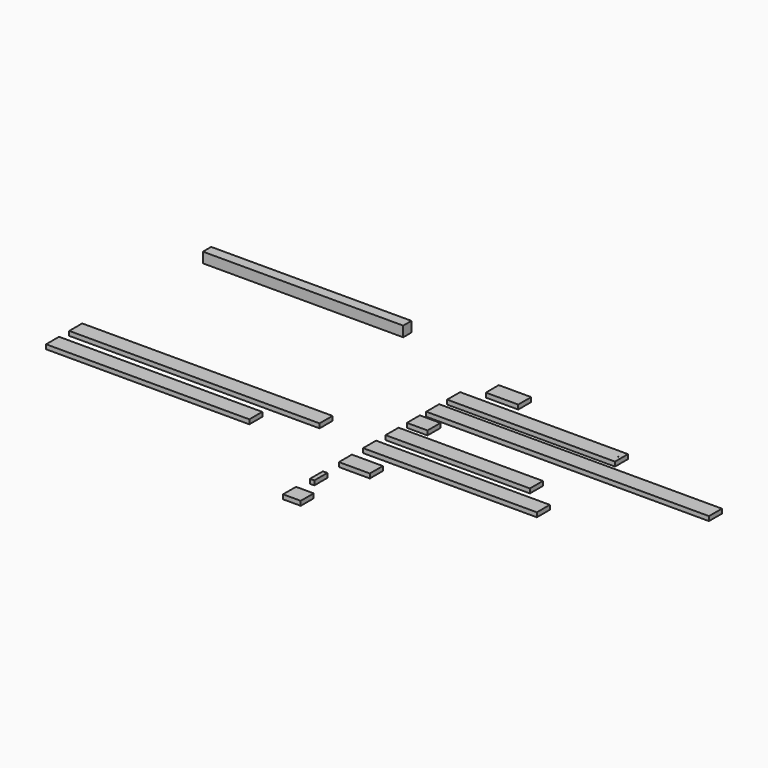
from build123d import *

# Parameters (mm, degrees)
F0_W     = 266.7
F0_H     = 139.7
F1_DEPTH = 38.1
F0_W_2   = 38.1
F0_W_3   = 152.4
F0_W_4   = 1498.6
F0_W_5   = 1244.6
F0_W_6   = 177.8
F0_W_7   = 2438.4
F0_W_8   = 1447.8
F0_R     = 3.175
F0_W_9   = 279.4
F2_DEPTH = 139.7
F3_DEPTH = 139.7
F4_W     = 2159
F4_H     = 139.7
F5_DEPTH = 38.1
F4_W_2   = 1752.6
F6_W     = 1727.2
F6_H     = 88.9
F7_DEPTH = 88.9


with BuildPart() as f1:
    # F0 (on Top) → F1 (new body)
    with BuildSketch(Plane.XY):
        with Locations((-160.613628155, 197.5400321245)):
            Rectangle(F0_W, F0_H)
    extrude(amount=F1_DEPTH)


with BuildPart() as f1b:
    # F0 (on Top) → F1, piece 2 (new body)
    with BuildSketch(Plane.XY):
        with Locations((-274.913628155, -114.7828675747)):
            Rectangle(F0_W_2, F0_H)
    extrude(amount=F1_DEPTH)


with BuildPart() as f1c:
    # F0 (on Top) → F1, piece 3 (new body)
    with BuildSketch(Plane.XY):
        with Locations((-217.763628155, -404.6737529278)):
            Rectangle(F0_W_3, F0_H)
    extrude(amount=F1_DEPTH)


with BuildPart() as f1d:
    # F0 (on Top) → F1, piece 4 (new body)
    with BuildSketch(Plane.XY):
        with Locations((455.336371845, 458.0967150688)):
            Rectangle(F0_W_4, F0_H)
    extrude(amount=F1_DEPTH)


with BuildPart() as f1e:
    # F0 (on Top) → F1, piece 5 (new body)
    with BuildSketch(Plane.XY):
        with Locations((328.336371845, 700.6174050331)):
            Rectangle(F0_W_5, F0_H)
    extrude(amount=F1_DEPTH)


with BuildPart() as f1f:
    # F0 (on Top) → F1, piece 6 (new body)
    with BuildSketch(Plane.XY):
        with Locations((-205.063628155, 930.0611935616)):
            Rectangle(F0_W_6, F0_H)
    extrude(amount=F1_DEPTH)


with BuildPart() as f1g:
    # F0 (on Top) → F1, piece 7 (new body)
    with BuildSketch(Plane.XY):
        with Locations((925.236371845, 1138.5292135239)):
            Rectangle(F0_W_7, F0_H)
    extrude(amount=F1_DEPTH)


with BuildPart() as f1h:
    # F0 (on Top) → F1, piece 8 (new body)
    with BuildSketch(Plane.XY):
        with Locations((429.936371845, 1364.0622220993)):
            Rectangle(F0_W_8, F0_H)
        with Locations((1125.9726285934, 1364.0622220993)):
            Circle(F0_R, mode=Mode.SUBTRACT)
    extrude(amount=F1_DEPTH)


with BuildPart() as f1i:
    # F0 (on Top) → F1, piece 9 (new body)
    with BuildSketch(Plane.XY):
        with Locations((-154.263628155, 1606.5415464401)):
            Rectangle(F0_W_9, F0_H)
    extrude(amount=F1_DEPTH)

    # F2 (cut): a face of the model
    f2_faces = [f1i.faces().sort_by_distance(p)[0] for p in [
        (-293.963628155, 1606.5415464401, 19.05),
    ]]
    extrude(f2_faces, amount=-F2_DEPTH, mode=Mode.SUBTRACT)

    # F3 (add): a face of the model
    f3_faces = [f1i.faces().sort_by_distance(p)[0] for p in [
        (-14.563628155, 1606.5415464401, 19.05),
    ]]
    extrude(f3_faces, amount=F3_DEPTH)


with BuildPart() as f5:
    # F4 (on Top) → F5 (new body)
    with BuildSketch(Plane.XY):
        with Locations((-1827.7137680054, 556.8766616344)):
            Rectangle(F4_W, F4_H)
    extrude(amount=F5_DEPTH)


with BuildPart() as f5b:
    # F4 (on Top) → F5, piece 2 (new body)
    with BuildSketch(Plane.XY):
        with Locations((-2030.9137680054, 307.136105752)):
            Rectangle(F4_W_2, F4_H)
    extrude(amount=F5_DEPTH)


with BuildPart() as f7:
    # F6 (on Top) → F7 (new body)
    with BuildSketch(Plane.XY):
        with Locations((-2001.823528862, 1920.1368839264)):
            Rectangle(F6_W, F6_H)
    extrude(amount=F7_DEPTH)


with BuildPart() as f8_1:
    # F8: copy of F1h
    add(f1h.part)


solid = Compound([f1.part, f1b.part, f1c.part, f1d.part, f1e.part, f1f.part, f1g.part, f1h.part, f1i.part, f5.part, f5b.part, f7.part, f8_1.part])
